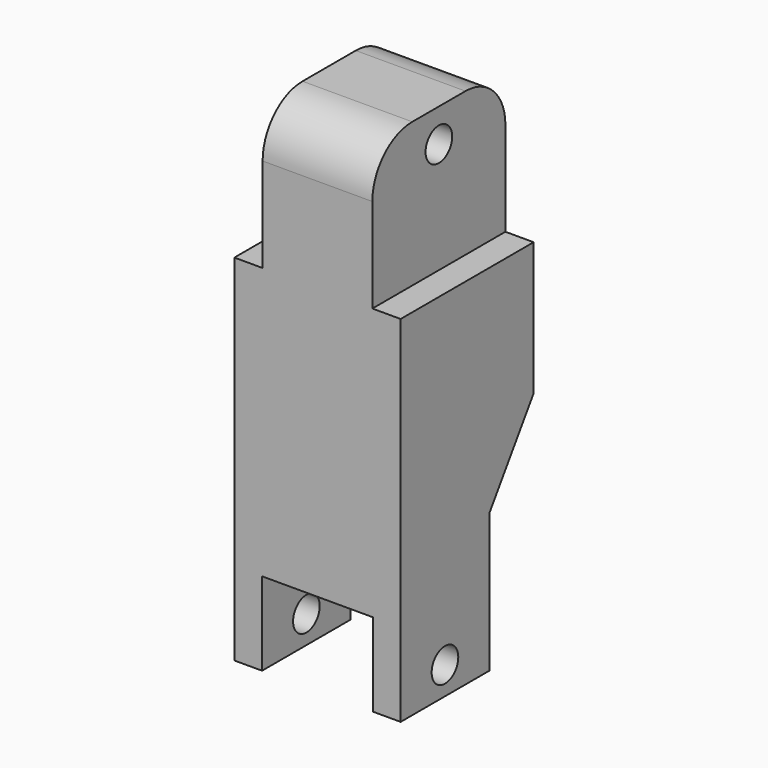
from build123d import *

# Parameters (mm, degrees)
F1_DEPTH = 150
F3_DEPTH = 188
F4_R     = 45
F5_R     = 15
F6_DEPTH = 133
F7_R     = 15
F8_DEPTH = 179


with BuildPart() as f1:
    # F0 (on Front) → F1 (new body)
    with BuildSketch(Plane.XZ):
        Polygon((-50, 0), (0, 0), (50, 0), (50, -75), (75, -75), (75, 245), (49.5, 245), (49.5, 375), (-49.5, 375), (-49.5, 245), (-75, 245), (-75, -75), (-50, -75), align=None)
    extrude(amount=F1_DEPTH)

    # F2 (on face) → F3 (cut)
    with BuildSketch(Plane.YZ.offset(75)):
        Polygon((-50, 50), (-50, -75), (0, -75), (0, 125), align=None)
    extrude(amount=-F3_DEPTH, mode=Mode.SUBTRACT)

    # F4
    f4_edges = [f1.edges().sort_by_distance(p)[0] for p in [
        (0, -150, 375),
        (0, 0, 375),
    ]]
    fillet(f4_edges, radius=F4_R)

    # F5 (on face) → F6 (cut)
    with BuildSketch(Plane.YZ.offset(49.5)):
        with Locations((-75, 345)):
            Circle(F5_R)
    extrude(amount=-F6_DEPTH, mode=Mode.SUBTRACT)

    # F7 (on face) → F8 (cut)
    with BuildSketch(Plane.YZ.offset(75)):
        with Locations((-100, -50)):
            Circle(F7_R)
    extrude(amount=-F8_DEPTH, mode=Mode.SUBTRACT)


solid = f1.part
